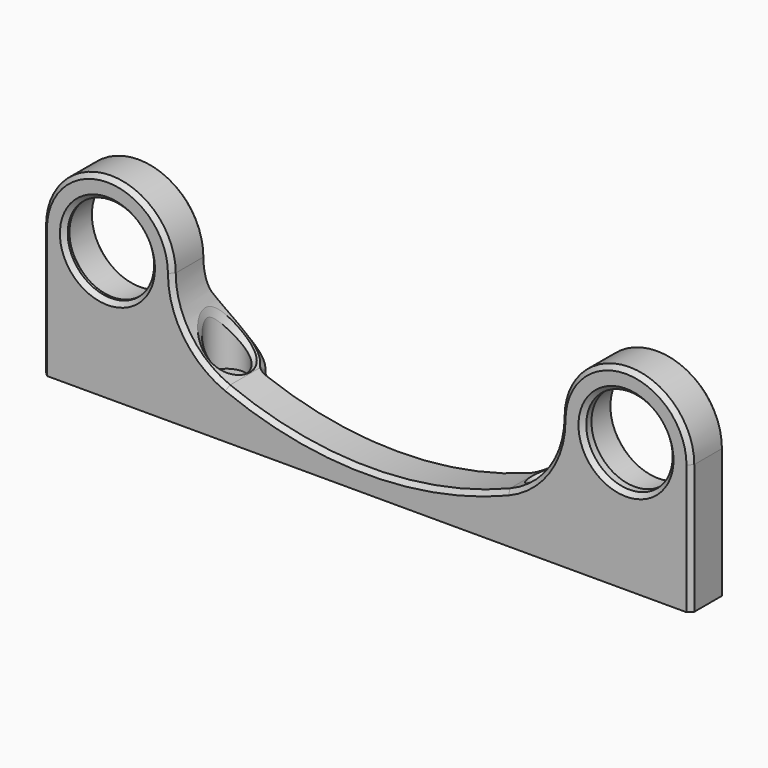
from build123d import *

# Parameters (mm, degrees)
PAD_DEPTH         = 46
SKETCH001_W       = 166
SKETCH001_H       = 58
SKETCH001_R       = 10
POCKET_DEPTH      = 7.001
POCKET_DEPTH_BACK = -7.001
HOLE_D            = 5
HOLE_DEPTH        = 25
HOLE_CBORE_D      = 9
HOLE_CBORE_DEPTH  = 14
SKETCH003_R       = 11.125
POCKET001_DEPTH   = 7.5
FILLET_R          = 2
CHAMFER_SIZE      = 1
CHAMFER001_SIZE   = 0.6


with BuildPart() as part:
    # Sketch → Pad (new body)
    with BuildSketch(Plane.XY):
        with BuildLine():
            Line((-75, 3), (-75, -7))
            Line((-75, -7), (75, -7))
            Line((75, -7), (75, 3))
            Line((75, 3), (44.324555, 3))
            ThreePointArc((44.324555, 3), (38, 7), (31.675445, 3))
            Line((31.675445, 3), (-31.675445, 3))
            ThreePointArc((-31.675445, 3), (-38, 7), (-44.324555, 3))
            Line((-44.324555, 3), (-75, 3))
        make_face()
    extrude(amount=PAD_DEPTH)

    # Sketch001 → Pocket (cut, two sides)
    with BuildSketch(Plane.XZ) as pocket_sk:
        with Locations((0, 23)):
            Rectangle(SKETCH001_W, SKETCH001_H)
        with BuildLine():
            ThreePointArc((-45, 30), (-60, 45), (-75, 30))
            Line((-75, 30), (-75, 0))
            Line((-75, 0), (75, 0))
            Line((75, 0), (75, 30))
            ThreePointArc((75, 30), (60, 45), (45, 30))
            ThreePointArc((32.392595, 11.302061), (41.553716, 18.724367), (45, 30))
            ThreePointArc((-32.392595, 11.302061), (0, 5), (32.392595, 11.302061))
            ThreePointArc((-45, 30), (-41.553716, 18.724367), (-32.392595, 11.302061))
        make_face(mode=Mode.SUBTRACT)
        with Locations((-60, 30)):
            Circle(SKETCH001_R)
        with Locations((60, 30)):
            Circle(SKETCH001_R)
    extrude(amount=-POCKET_DEPTH, mode=Mode.SUBTRACT)
    extrude(pocket_sk.sketch, amount=-POCKET_DEPTH_BACK, mode=Mode.SUBTRACT)

    # Hole
    with Locations(Plane.XY.offset(22)):
        with Locations((-38, 0), (38, 0)):
            CounterBoreHole(HOLE_D / 2, HOLE_CBORE_D / 2, HOLE_CBORE_DEPTH, depth=HOLE_DEPTH)

    # Sketch003 → Pocket001 (cut)
    with BuildSketch(Plane.XZ.offset(-3)):
        with Locations((-60, 30)):
            Circle(SKETCH003_R)
        with Locations((60, 30)):
            Circle(SKETCH003_R)
    extrude(amount=POCKET001_DEPTH, mode=Mode.SUBTRACT)

    # Fillet
    fillet_edges = [part.edges().sort_by_distance(p)[0] for p in [
        (31.675445, 3, 5.507879),
        (44.324555, 3, 12.412048),
        (-31.675445, 3, 5.507879),
        (-44.324555, 3, 12.412048),
    ]]
    fillet(fillet_edges, radius=FILLET_R)

    # Chamfer
    chamfer_edges = [part.edges().sort_by_distance(p)[0] for p in [
        (75, -7, 15),
        (60, -7, 45),
        (41.553716, -7, 18.724367),
        (0, -7, 5),
        (-41.553716, -7, 18.724367),
        (-60, -7, 45),
        (-75, -7, 15),
        (-70, -7, 30),
        (50, -7, 30),
        (48.875, -4.5, 30),
        (71.125, -0.75, 30),
        (33.5, 0, 11.789045),
        (-70, -4.5, 30),
        (-42.5, 0, 20.273983),
        (70, -5.75, 30),
        (75, 3, 15),
        (61.903907, 3, 44.878681),
    ]]
    chamfer(chamfer_edges, length=CHAMFER_SIZE)

    # Chamfer001
    chamfer001_edges = [part.edges().sort_by_distance(p)[0] for p in [
        (48.875, 3, 30),
        (-71.125, 3, 30),
    ]]
    chamfer(chamfer001_edges, length=CHAMFER001_SIZE)


solid = part.part
